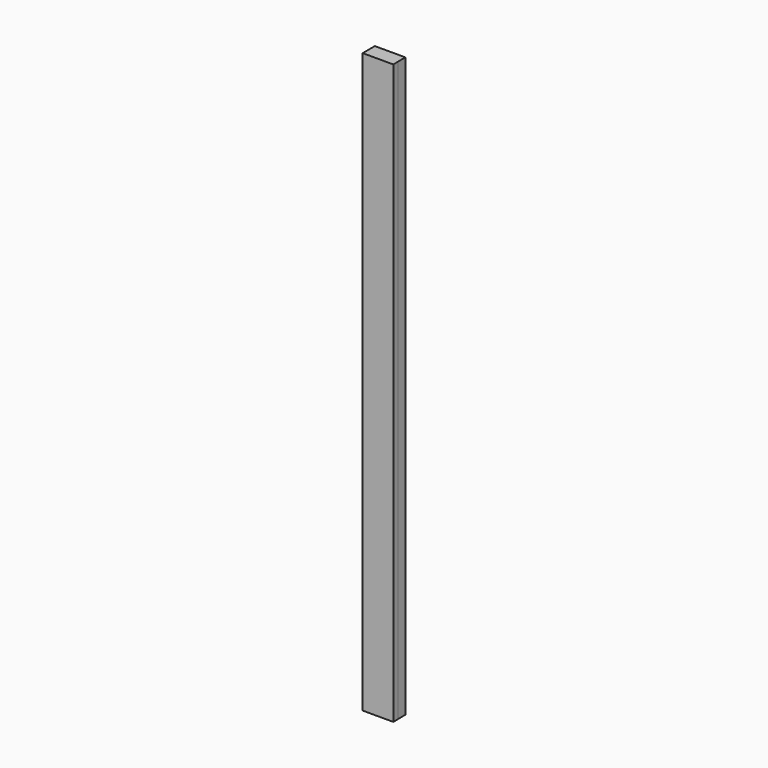
from build123d import *

# Parameters (mm, degrees)
F0_W     = 100
F0_H     = 50
F1_DEPTH = 1899
F2_W     = 20
F2_H     = 1899
F3_DEPTH = 0.5


with BuildPart() as f1:
    # F0 (on Top) → F1 (new body)
    with BuildSketch(Plane.XY):
        Rectangle(F0_W, F0_H)
    extrude(amount=F1_DEPTH)

    # F2 (on face) → F3 (join)
    with BuildSketch(Plane.YZ.offset(50)):
        with Locations((-15, 949.5)):
            Rectangle(F2_W, F2_H)
    extrude(amount=F3_DEPTH)


solid = f1.part
